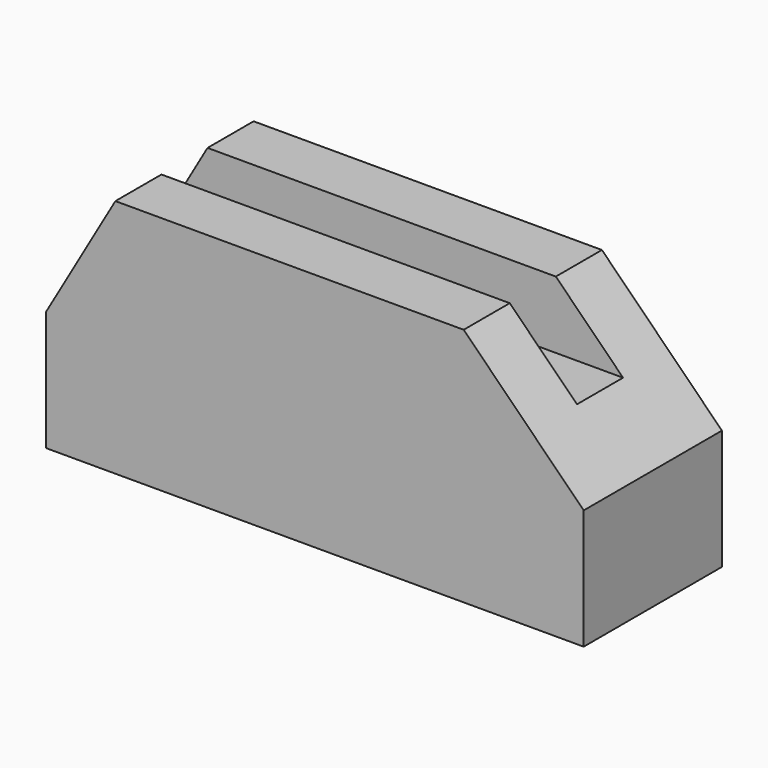
from build123d import *

# Parameters (mm, degrees)
F0_W     = 1422.4
F0_H     = 317.5
F1_DEPTH = 457.2
F2_W     = 73.0727104677
F2_H     = 152.4
F2_W_2   = 207.264
F2_W_3   = 921.5912895323
F3_DEPTH = 177.8


with BuildPart() as f1:
    # F0 (on Front) → F1 (new body)
    with BuildSketch(Plane.XZ):
        with Locations((711.2, 158.75)):
            Rectangle(F0_W, F0_H)
        Polygon((183.3087104677, 635), (0, 317.5), (1422.4, 317.5), (1104.9, 635), align=None)
    extrude(amount=F1_DEPTH)

    # F2 (on face) → F3 (cut)
    with BuildSketch(Plane.XY.offset(635)):
        with Locations((146.7723552339, -228.6)):
            Rectangle(F2_W, F2_H)
        with Locations((1208.532, -228.6)):
            Rectangle(F2_W_2, F2_H)
        with Locations((644.1043552339, -228.6)):
            Rectangle(F2_W_3, F2_H)
    extrude(amount=-F3_DEPTH, mode=Mode.SUBTRACT)


solid = f1.part
